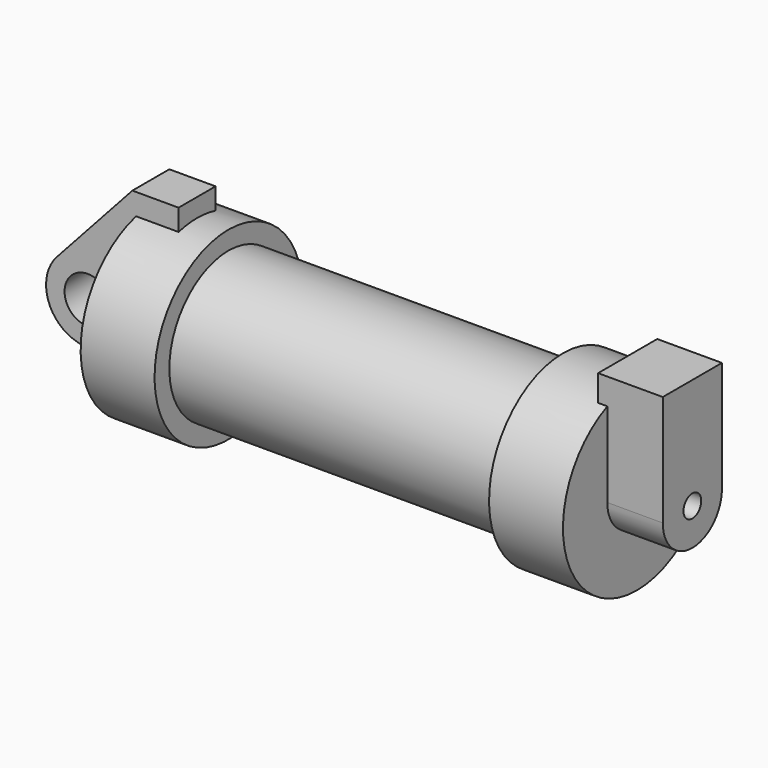
from build123d import *

# Parameters (mm, degrees)
F0_R     = 3.175
F0_W     = 5.842
F0_H     = 12.7
F1_DEPTH = 3.175
F4_DEPTH = 7.62
F5_DEPTH = 1.27


with BuildPart() as f1:
    # F0 (on Front) → F1 (new body, symmetric)
    with BuildSketch(Plane.XZ):
        with BuildLine():
            Line((-0.9398, 0), (0, 0))
            Line((0, 0), (0, 12.7))
            Line((0, 12.7), (5.842, 12.7))
            Line((5.842, 12.7), (5.842, 15.24))
            Line((5.842, 15.24), (-0.508, 15.24))
            Line((-0.508, 15.24), (-10.8806298187, 3.8475430269))
            ThreePointArc((-10.8806298187, 3.8475430269), (-4.5919612295, 5.3297205562), (-0.9398, 0))
        make_face()
        with BuildLine():
            Line((5.842, 0), (0, 0))
            Line((0, 0), (-0.9398, 0))
            ThreePointArc((-0.9398, 0), (-3.1957909266, -4.5493385486), (-8.1826630726, -5.5069827884))
            Line((-8.1826630726, -5.5069827884), (5.842, -9.398))
            Line((5.842, -9.398), (5.842, 0))
        make_face()
        with BuildLine():
            ThreePointArc((-8.1826630726, -5.5069827884), (-3.1957909266, -4.5493385486), (-0.9398, 0))
            ThreePointArc((-0.9398, 0), (-4.5919612295, 5.3297205562), (-10.8806298187, 3.8475430269))
            ThreePointArc((-10.8806298187, 3.8475430269), (-12.1459778134, -1.5837270034), (-8.1826630726, -5.5069827884))
        make_face()
        with Locations((-6.6548, 0)):
            Circle(F0_R, mode=Mode.SUBTRACT)
        with Locations((2.921, 6.35)):
            Rectangle(F0_W, F0_H)
    extrude(amount=F1_DEPTH, both=True)

    # F0 (on Front) → F2 (revolve)
    with BuildSketch(Plane.XZ):
        with Locations((2.921, 6.35)):
            Rectangle(F0_W, F0_H)
        Polygon((5.842, 12.7), (5.842, 0), (66.294, 0), (66.294, 12.7), (56.134, 12.7), (56.134, 10.16), (10.16, 10.16), (10.16, 12.7), align=None)
    revolve(axis=Axis((33.147, 0, 0), (-1, 0, 0)))

    # F3 (on face) → F4 (join)
    with BuildSketch(Plane.YZ.offset(66.294)):
        with BuildLine():
            ThreePointArc((-5.08, 11.6397422652), (0, 12.7), (5.08, 11.6397422652))
            Line((5.08, 11.6397422652), (5.08, 15.24))
            Line((5.08, 15.24), (3.175, 15.24))
            Line((3.175, 15.24), (-3.175, 15.24))
            Line((-3.175, 15.24), (-5.08, 15.24))
            Line((-5.08, 15.24), (-5.08, 11.6397422652))
        make_face()
        with BuildLine():
            ThreePointArc((-5.08, 0), (0, 5.08), (5.08, 0))
            Line((5.08, 0), (5.08, 11.6397422652))
            ThreePointArc((5.08, 11.6397422652), (0, 12.7), (-5.08, 11.6397422652))
            Line((-5.08, 11.6397422652), (-5.08, 0))
        make_face()
        with BuildLine():
            ThreePointArc((-1.524, 0), (0, 1.524), (1.524, 0))
            Line((1.524, 0), (5.08, 0))
            ThreePointArc((5.08, 0), (0, 5.08), (-5.08, 0))
            Line((-5.08, 0), (-1.524, 0))
        make_face()
        with BuildLine():
            Line((5.08, 0), (1.524, 0))
            ThreePointArc((1.524, 0), (0, -1.524), (-1.524, 0))
            Line((-1.524, 0), (-5.08, 0))
            ThreePointArc((-5.08, 0), (0, -5.08), (5.08, 0))
        make_face()
    extrude(amount=F4_DEPTH)

    # F5 (add): a face of the model
    f5_faces = [f1.faces().sort_by_distance(p)[0] for p in [
        (66.294, 0, 13.7792682875),
    ]]
    extrude(f5_faces, amount=F5_DEPTH)


solid = f1.part
